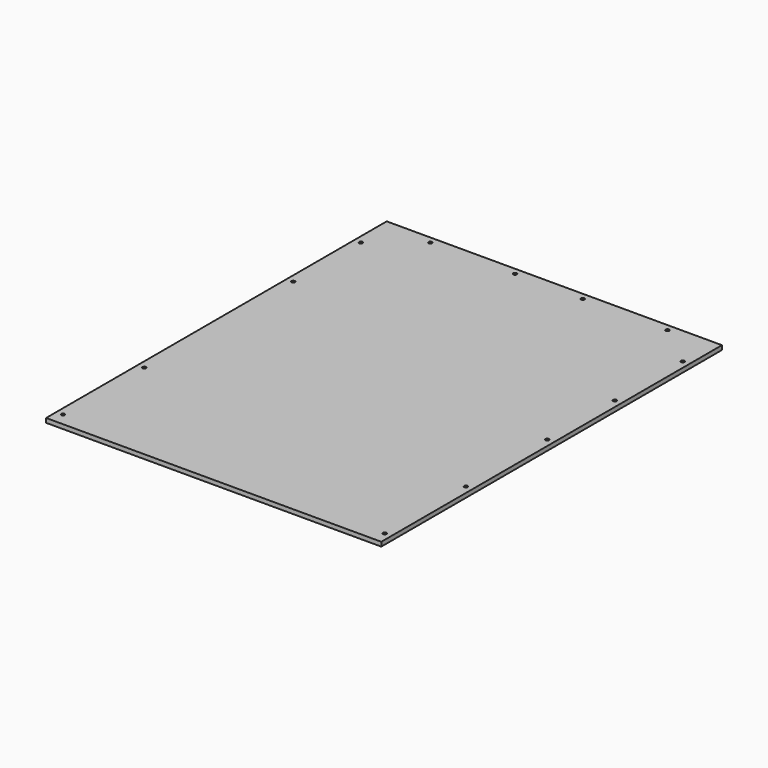
from build123d import *

# Parameters (mm, degrees)
F0_W     = 247.5
F0_H     = 628.75
F0_R     = 2.6
F1_DEPTH = 6.35


with BuildPart() as f1:
    # F0 (on Top) → F1 (new body)
    with BuildSketch(Plane.XY):
        with Locations((70.48457, 281.802623)):
            Rectangle(F0_W, F0_H)
        with Locations((-43.26543, -13.822377)):
            Circle(F0_R, mode=Mode.SUBTRACT)
        with Locations((-43.26543, 136.177623)):
            Circle(F0_R, mode=Mode.SUBTRACT)
        with Locations((-43.26543, 411.177623)):
            Circle(F0_R, mode=Mode.SUBTRACT)
        with Locations((-43.26543, 536.177623)):
            Circle(F0_R, mode=Mode.SUBTRACT)
        with Locations((19.23457, 586.177623)):
            Circle(F0_R, mode=Mode.SUBTRACT)
        with Locations((144.23457, 586.177623)):
            Circle(F0_R, mode=Mode.SUBTRACT)
        with Locations((317.98457, 281.802623)):
            Rectangle(F0_W, F0_H)
        with Locations((431.73457, -13.822377)):
            Circle(F0_R, mode=Mode.SUBTRACT)
        with Locations((431.73457, 136.177623)):
            Circle(F0_R, mode=Mode.SUBTRACT)
        with Locations((431.73457, 286.177623)):
            Circle(F0_R, mode=Mode.SUBTRACT)
        with Locations((431.73457, 411.177623)):
            Circle(F0_R, mode=Mode.SUBTRACT)
        with Locations((244.23457, 586.177623)):
            Circle(F0_R, mode=Mode.SUBTRACT)
        with Locations((369.23457, 586.177623)):
            Circle(F0_R, mode=Mode.SUBTRACT)
        with Locations((431.73457, 536.177623)):
            Circle(F0_R, mode=Mode.SUBTRACT)
    extrude(amount=F1_DEPTH)


solid = f1.part
